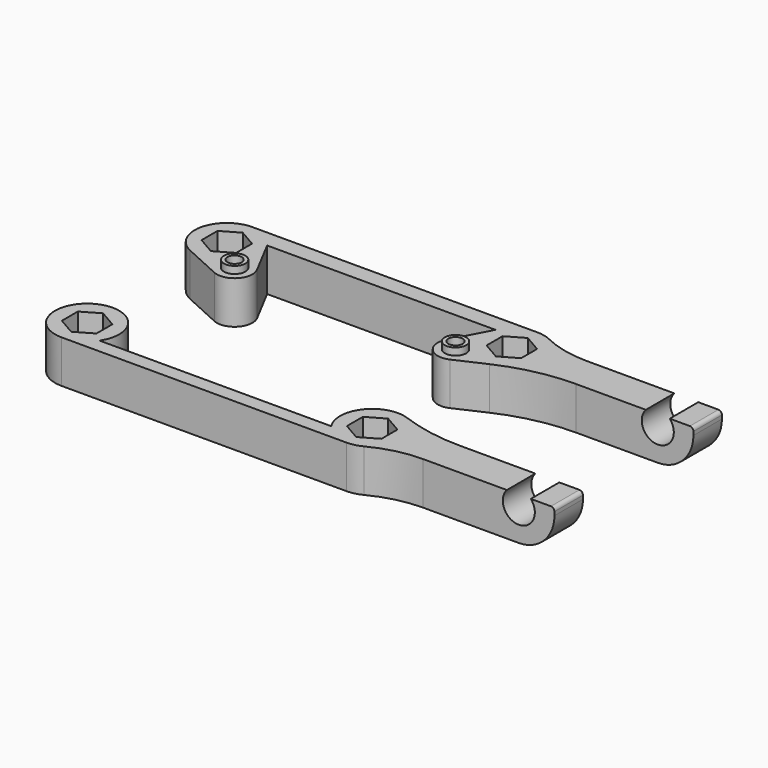
from build123d import *

# Parameters (mm, degrees)
SKETCH005_R     = 1
PAD002_DEPTH    = 6
SKETCH006_W     = 6
SKETCH006_H     = 5
PAD003_DEPTH    = 25
SKETCH007_R     = 2.25
POCKET001_DEPTH = 29.377419
FILLET001_R     = 5
FILLET002_R     = 0.5
SKETCH008_R     = 1.5
SKETCH008_R_2   = 1
PAD004_DEPTH    = 1
FILLET003_R     = 25
FILLET004_R     = 15


with BuildPart() as part:
    # Sketch005 → Pad002 (new body)
    with BuildSketch(Plane.XY):
        with BuildLine():
            ThreePointArc((-20, 16.75), (-24.397441, 13.205256), (-21.866969, 8.155562))
            Line((-21.866969, 8.155562), (-16.537205, 5.725312))
            ThreePointArc((-16.537205, 5.725312), (-13.682467, 6.283441), (-13.288243, 9.165389))
            Line((-16.018838, 14.347701), (-13.288243, 9.165389))
            Line((-16.018838, 14.347701), (16.018838, 14.347701))
            Line((16.018838, 14.347701), (13.288243, 9.165389))
            ThreePointArc((13.288243, 9.165389), (13.682467, 6.283441), (16.537205, 5.725312))
            Line((21.866969, 8.155562), (16.537205, 5.725312))
            ThreePointArc((21.866969, 8.155562), (24.397438, 13.205268), (19.999975, 16.75))
            Line((-20, 16.75), (19.999975, 16.75))
        make_face()
        with Locations((-15.5, 8)):
            Circle(SKETCH005_R, mode=Mode.SUBTRACT)
        with Locations((15.5, 8)):
            Circle(SKETCH005_R, mode=Mode.SUBTRACT)
        Polygon((-17.575129, 13.65), (-20, 15.05), (-22.424871, 13.65), (-22.424871, 10.85), (-20, 9.45), (-17.575129, 10.85), align=None, mode=Mode.SUBTRACT)
        Polygon((22.424871, 13.65), (20, 15.05), (17.575129, 13.65), (17.575129, 10.85), (20, 9.45), (22.424871, 10.85), align=None, mode=Mode.SUBTRACT)
        with BuildLine():
            ThreePointArc((-16.258343, -14.75), (-22.12132, -8.281373), (-20, -16.75))
            Line((-20, -16.75), (20.00002, -16.75))
            ThreePointArc((20.00002, -16.75), (22.121311, -8.281368), (16.258343, -14.75))
            Line((-16.258343, -14.75), (16.258343, -14.75))
        make_face()
        Polygon((-17.575129, -10.85), (-20, -9.45), (-22.424871, -10.85), (-22.424871, -13.65), (-20, -15.05), (-17.575129, -13.65), align=None, mode=Mode.SUBTRACT)
        Polygon((22.424871, -10.85), (20, -9.45), (17.575129, -10.85), (17.575129, -13.65), (20, -15.05), (22.424871, -13.65), align=None, mode=Mode.SUBTRACT)
    extrude(amount=PAD002_DEPTH)

    # Sketch006 (on Vertex58 of Pad002) → Pad003 (join)
    with BuildSketch(Plane(origin=(22.424871, 0, 3), x_dir=(0, 0, 1), z_dir=(1, 0, 0))):
        with Locations((0, -12.321085)):
            Rectangle(SKETCH006_W, SKETCH006_H)
        with Locations((0, 12.056333)):
            Rectangle(SKETCH006_W, SKETCH006_H)
    extrude(amount=PAD003_DEPTH)

    # Sketch007 (on Face37 of Pad003) → Pocket001 (cut)
    with BuildSketch(Plane.XZ.offset(14.556333)):
        with Locations((42.424871, 4.5)):
            Circle(SKETCH007_R)
    extrude(amount=-POCKET001_DEPTH, mode=Mode.SUBTRACT)

    # Fillet001
    fillet001_edges = [part.edges().sort_by_distance(p)[0] for p in [
        (47.424871, -12.056333, 0),
        (47.424871, 12.321085, 0),
    ]]
    fillet(fillet001_edges, radius=FILLET001_R)

    # Fillet002
    fillet002_edges = [part.edges().sort_by_distance(p)[0] for p in [
        (47.424871, -12.056333, 6),
        (47.424871, 12.321085, 6),
    ]]
    fillet(fillet002_edges, radius=FILLET002_R)

    # Sketch008 → Pad004 (join)
    with BuildSketch(Plane.XY.offset(6)):
        with Locations((15.5, 8)):
            Circle(SKETCH008_R)
        with Locations((15.5, 8)):
            Circle(SKETCH008_R_2, mode=Mode.SUBTRACT)
        with Locations((-15.5, 8)):
            Circle(SKETCH008_R)
        with Locations((-15.5, 8)):
            Circle(SKETCH008_R_2, mode=Mode.SUBTRACT)
    extrude(amount=PAD004_DEPTH)

    # Fillet003
    fillet003_edges = [part.edges().sort_by_distance(p)[0] for p in [
        (23.604741, -9.556333, 3),
        (23.788189, 9.821085, 3),
    ]]
    fillet(fillet003_edges, radius=FILLET003_R)

    # Fillet004
    fillet004_edges = [part.edges().sort_by_distance(p)[0] for p in [
        (23.864043, -14.556333, 3),
        (23.693172, 14.821085, 3),
    ]]
    fillet(fillet004_edges, radius=FILLET004_R)


solid = part.part
